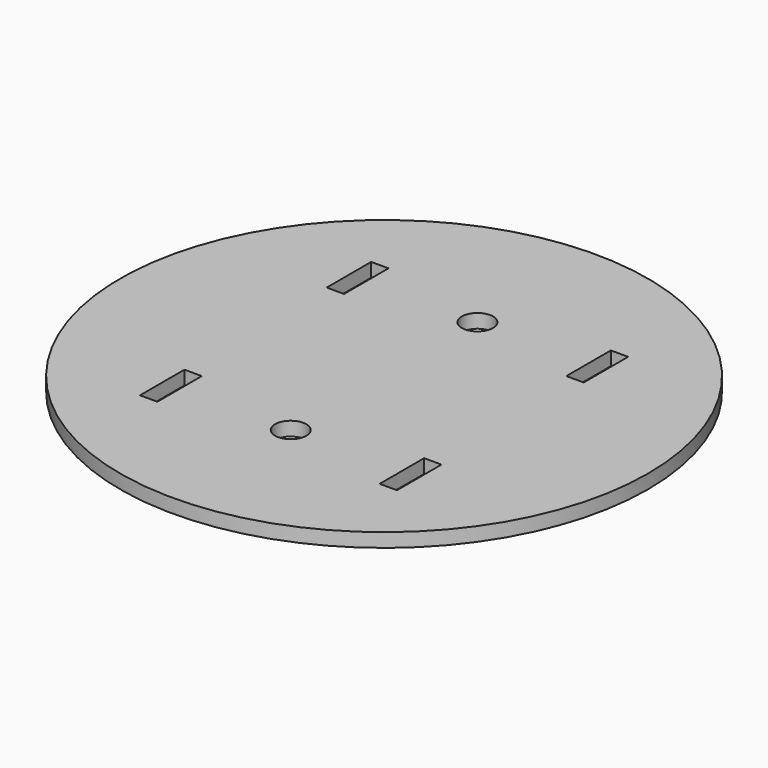
from build123d import *

# Parameters (mm, degrees)
F0_R     = 120.65
F0_W     = 7.9375
F0_H     = 25.4
F0_R_2   = 7.14375
F1_DEPTH = 6.35


with BuildPart() as f1:
    # F0 (on Top) → F1 (new body)
    with BuildSketch(Plane.XY):
        Circle(F0_R)
        with Locations((-54.76875, -53.34)):
            Rectangle(F0_W, F0_H, mode=Mode.SUBTRACT)
        with Locations((0, -53.34)):
            Circle(F0_R_2, mode=Mode.SUBTRACT)
        with Locations((54.76875, -53.34)):
            Rectangle(F0_W, F0_H, mode=Mode.SUBTRACT)
        with Locations((-54.76875, 53.34)):
            Rectangle(F0_W, F0_H, mode=Mode.SUBTRACT)
        with Locations((0, 53.34)):
            Circle(F0_R_2, mode=Mode.SUBTRACT)
        with Locations((54.76875, 53.34)):
            Rectangle(F0_W, F0_H, mode=Mode.SUBTRACT)
    extrude(amount=F1_DEPTH)


solid = f1.part
